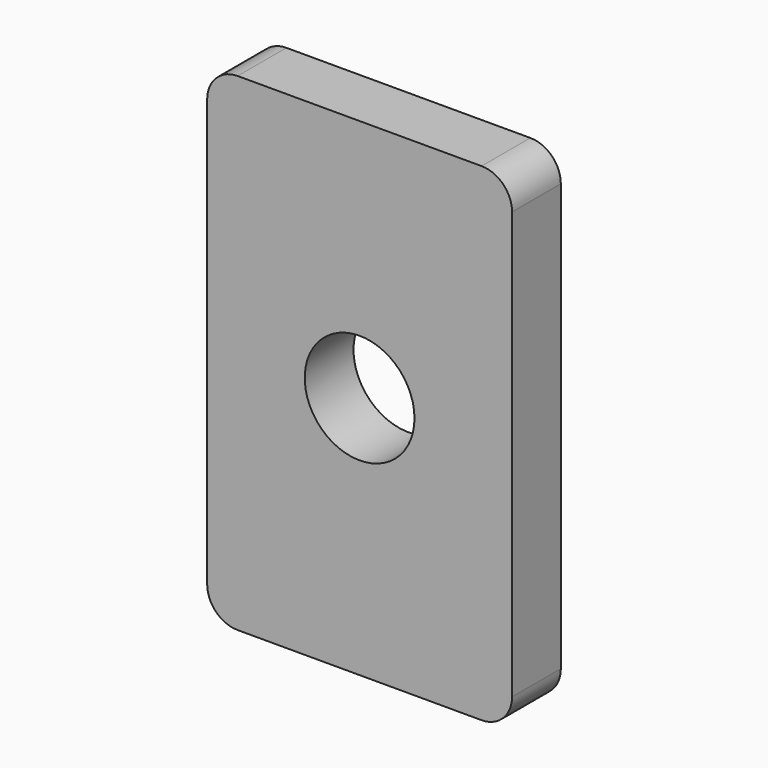
from build123d import *

# Parameters (mm, degrees)
F0_W     = 50
F0_H     = 80
F1_DEPTH = 10
F2_R     = 9
F3_DEPTH = 10.001
F4_R     = 5


with BuildPart() as f1:
    # F0 (on Front) → F1 (new body)
    with BuildSketch(Plane.XZ):
        with Locations((25, -40)):
            Rectangle(F0_W, F0_H)
    extrude(amount=F1_DEPTH)

    # F2 (on face) → F3 (cut, through all)
    with BuildSketch(Plane.XZ.offset(10)):
        with Locations((25, -40)):
            Circle(F2_R)
    extrude(amount=-F3_DEPTH, mode=Mode.SUBTRACT)

    # F4
    f4_edges = [f1.edges().sort_by_distance(p)[0] for p in [
        (50, -5, 0),
        (0, -5, 0),
        (50, -5, -80),
        (0, -5, -80),
    ]]
    fillet(f4_edges, radius=F4_R)


solid = f1.part
